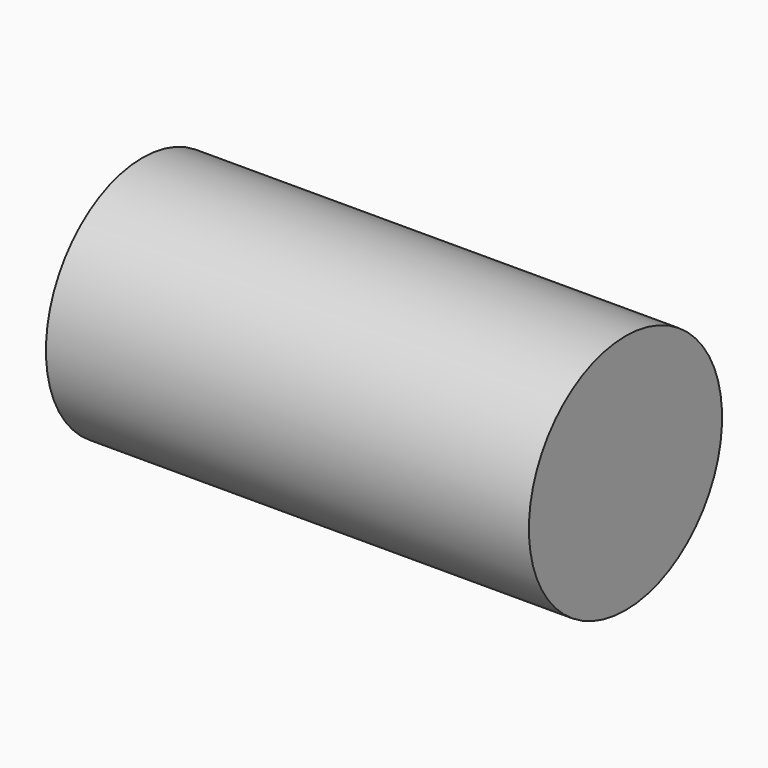
from build123d import *

# Parameters (mm, degrees)
F0_W = 200
F0_H = 50


with BuildPart() as f1:
    # F0 (on Front) → F1 (revolve)
    with BuildSketch(Plane.XZ):
        Rectangle(F0_W, F0_H)
    revolve(axis=Axis((0, 0, 25), (1, 0, 0)))


solid = f1.part
